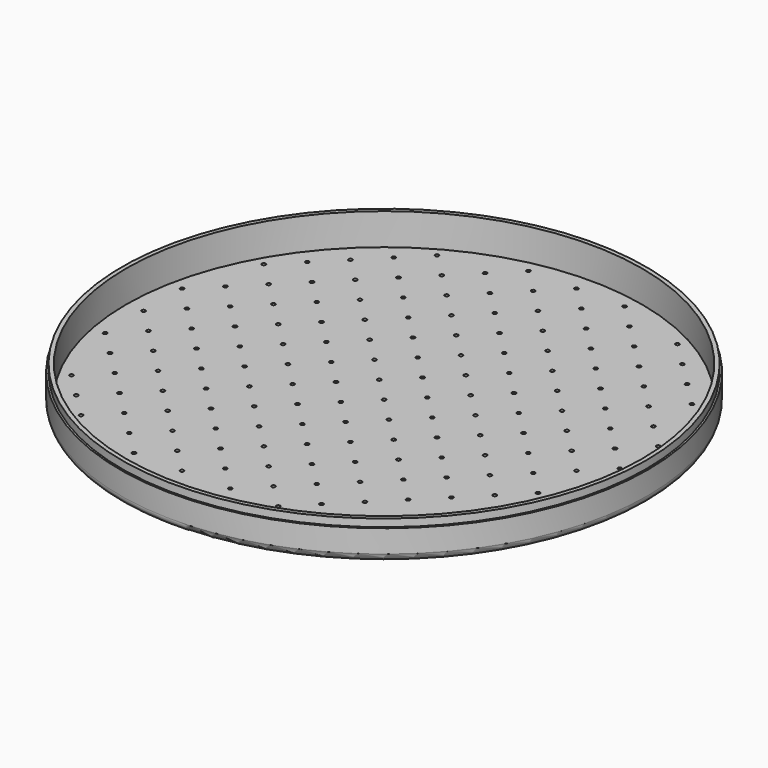
from build123d import *

# Parameters (mm, degrees)
F0_R     = 69.85
F1_DEPTH = 10
F2_T     = -1.6
F3_R     = 0.5
F4_DEPTH = 1.6
F5_R     = 2
F6_R     = 69.85
F6_R_2   = 69.35
F7_DEPTH = 2


with BuildPart() as f1:
    # F0 (on Top) → F1 (new body)
    with BuildSketch(Plane.XY):
        Circle(F0_R)
    extrude(amount=F1_DEPTH)

    # F2
    f2_openings = [f1.faces().sort_by_distance(p)[0] for p in [
        (0, 0, 10),
    ]]
    offset(amount=F2_T, openings=f2_openings)

    # F3 (on face) → F4 (cut, through all)
    with BuildSketch(Plane(origin=(0, 0, 0), x_dir=(1, 0, 0), z_dir=(0, 0, -1))):
        with Locations((-6.363922, 6.364)):
            Circle(F3_R)
        with Locations((-19.091922, 6.364)):
            Circle(F3_R)
        with Locations((-31.819922, 6.364)):
            Circle(F3_R)
        with Locations((-44.547922, 6.364)):
            Circle(F3_R)
        with Locations((-57.275922, 6.364)):
            Circle(F3_R)
        Circle(F3_R)
        with Locations((-12.728, 0)):
            Circle(F3_R)
        with Locations((-25.456, 0)):
            Circle(F3_R)
        with Locations((-38.184, 0)):
            Circle(F3_R)
        with Locations((-50.912, 0)):
            Circle(F3_R)
        with Locations((-63.64, 0)):
            Circle(F3_R)
        with Locations((-50.912, 12.728)):
            Circle(F3_R)
        with Locations((-31.819922, 19.092)):
            Circle(F3_R)
        with Locations((-44.547922, 19.092)):
            Circle(F3_R)
        with Locations((-38.184, 12.728)):
            Circle(F3_R)
        with Locations((-57.275922, 19.092)):
            Circle(F3_R)
        with Locations((-25.456, 12.728)):
            Circle(F3_R)
        with Locations((-63.64, 12.728)):
            Circle(F3_R)
        with Locations((-19.091922, 19.092)):
            Circle(F3_R)
        with Locations((-6.363922, 19.092)):
            Circle(F3_R)
        with Locations((0, 12.728)):
            Circle(F3_R)
        with Locations((-12.728, 12.728)):
            Circle(F3_R)
        with Locations((-50.912, 25.456)):
            Circle(F3_R)
        with Locations((-31.819922, 31.82)):
            Circle(F3_R)
        with Locations((-44.547922, 31.82)):
            Circle(F3_R)
        with Locations((-38.184, 25.456)):
            Circle(F3_R)
        with Locations((-57.275922, 31.82)):
            Circle(F3_R)
        with Locations((-25.456, 25.456)):
            Circle(F3_R)
        with Locations((-19.091922, 31.82)):
            Circle(F3_R)
        with Locations((-6.363922, 31.82)):
            Circle(F3_R)
        with Locations((0, 25.456)):
            Circle(F3_R)
        with Locations((-12.728, 25.456)):
            Circle(F3_R)
        with Locations((-50.912, 38.184)):
            Circle(F3_R)
        with Locations((-31.819922, 44.548)):
            Circle(F3_R)
        with Locations((-44.547922, 44.548)):
            Circle(F3_R)
        with Locations((-38.184, 38.184)):
            Circle(F3_R)
        with Locations((-25.456, 38.184)):
            Circle(F3_R)
        with Locations((-19.091922, 44.548)):
            Circle(F3_R)
        with Locations((-6.363922, 44.548)):
            Circle(F3_R)
        with Locations((0, 38.184)):
            Circle(F3_R)
        with Locations((-12.728, 38.184)):
            Circle(F3_R)
        with Locations((-31.819922, 57.276)):
            Circle(F3_R)
        with Locations((-38.184, 50.912)):
            Circle(F3_R)
        with Locations((-25.456, 50.912)):
            Circle(F3_R)
        with Locations((-19.091922, 57.276)):
            Circle(F3_R)
        with Locations((-6.363922, 57.276)):
            Circle(F3_R)
        with Locations((0, 50.912)):
            Circle(F3_R)
        with Locations((-12.728, 50.912)):
            Circle(F3_R)
        with Locations((0, 63.64)):
            Circle(F3_R)
        with Locations((-12.728, 63.64)):
            Circle(F3_R)
        with Locations((63.64, 0)):
            Circle(F3_R)
        with Locations((6.363922, 31.82)):
            Circle(F3_R)
        with Locations((12.728, 0)):
            Circle(F3_R)
        with Locations((19.091922, 6.364)):
            Circle(F3_R)
        with Locations((6.363922, 6.364)):
            Circle(F3_R)
        with Locations((19.091922, 31.82)):
            Circle(F3_R)
        with Locations((19.091922, 19.092)):
            Circle(F3_R)
        with Locations((12.728, 50.912)):
            Circle(F3_R)
        with Locations((12.728, 12.728)):
            Circle(F3_R)
        with Locations((12.728, 38.184)):
            Circle(F3_R)
        with Locations((19.091922, 57.276)):
            Circle(F3_R)
        with Locations((12.728, 25.456)):
            Circle(F3_R)
        with Locations((6.363922, 44.548)):
            Circle(F3_R)
        with Locations((12.728, 63.64)):
            Circle(F3_R)
        with Locations((63.64, 12.728)):
            Circle(F3_R)
        with Locations((6.363922, 19.092)):
            Circle(F3_R)
        with Locations((19.091922, 44.548)):
            Circle(F3_R)
        with Locations((6.363922, 57.276)):
            Circle(F3_R)
        with Locations((31.819922, 57.276)):
            Circle(F3_R)
        with Locations((57.275922, 19.092)):
            Circle(F3_R)
        with Locations((44.547922, 44.548)):
            Circle(F3_R)
        with Locations((50.912, 0)):
            Circle(F3_R)
        with Locations((38.184, 0)):
            Circle(F3_R)
        with Locations((25.456, 0)):
            Circle(F3_R)
        with Locations((57.275922, 6.364)):
            Circle(F3_R)
        with Locations((44.547922, 6.364)):
            Circle(F3_R)
        with Locations((31.819922, 6.364)):
            Circle(F3_R)
        with Locations((50.912, 12.728)):
            Circle(F3_R)
        with Locations((38.184, 12.728)):
            Circle(F3_R)
        with Locations((31.819922, 44.548)):
            Circle(F3_R)
        with Locations((25.456, 25.456)):
            Circle(F3_R)
        with Locations((44.547922, 19.092)):
            Circle(F3_R)
        with Locations((50.912, 38.184)):
            Circle(F3_R)
        with Locations((25.456, 38.184)):
            Circle(F3_R)
        with Locations((31.819922, 19.092)):
            Circle(F3_R)
        with Locations((38.184, 25.456)):
            Circle(F3_R)
        with Locations((38.184, 50.912)):
            Circle(F3_R)
        with Locations((38.184, 38.184)):
            Circle(F3_R)
        with Locations((31.819922, 31.82)):
            Circle(F3_R)
        with Locations((50.912, 25.456)):
            Circle(F3_R)
        with Locations((25.456, 12.728)):
            Circle(F3_R)
        with Locations((25.456, 50.912)):
            Circle(F3_R)
        with Locations((44.547922, 31.82)):
            Circle(F3_R)
        with Locations((57.275922, 31.82)):
            Circle(F3_R)
        with Locations((0, -63.64)):
            Circle(F3_R)
        with Locations((0, -25.456)):
            Circle(F3_R)
        with Locations((0, -38.184)):
            Circle(F3_R)
        with Locations((0, -50.912)):
            Circle(F3_R)
        with Locations((0, -12.728)):
            Circle(F3_R)
        with Locations((-6.363922, -31.82)):
            Circle(F3_R)
        with Locations((6.363922, -19.092)):
            Circle(F3_R)
        with Locations((6.363922, -6.364)):
            Circle(F3_R)
        with Locations((12.728, -38.184)):
            Circle(F3_R)
        with Locations((19.091922, -6.364)):
            Circle(F3_R)
        with Locations((-12.728, -50.912)):
            Circle(F3_R)
        with Locations((-12.728, -63.64)):
            Circle(F3_R)
        with Locations((-63.64, -12.728)):
            Circle(F3_R)
        with Locations((-6.363922, -44.548)):
            Circle(F3_R)
        with Locations((-12.728, -25.456)):
            Circle(F3_R)
        with Locations((12.728, -25.456)):
            Circle(F3_R)
        with Locations((-19.091922, -19.092)):
            Circle(F3_R)
        with Locations((6.363922, -57.276)):
            Circle(F3_R)
        with Locations((-19.091922, -57.276)):
            Circle(F3_R)
        with Locations((19.091922, -19.092)):
            Circle(F3_R)
        with Locations((-12.728, -12.728)):
            Circle(F3_R)
        with Locations((6.363922, -44.548)):
            Circle(F3_R)
        with Locations((12.728, -12.728)):
            Circle(F3_R)
        with Locations((-12.728, -38.184)):
            Circle(F3_R)
        with Locations((-6.363922, -19.092)):
            Circle(F3_R)
        with Locations((-6.363922, -57.276)):
            Circle(F3_R)
        with Locations((12.728, -50.912)):
            Circle(F3_R)
        with Locations((19.091922, -44.548)):
            Circle(F3_R)
        with Locations((19.091922, -31.82)):
            Circle(F3_R)
        with Locations((6.363922, -31.82)):
            Circle(F3_R)
        with Locations((63.64, -12.728)):
            Circle(F3_R)
        with Locations((19.091922, -57.276)):
            Circle(F3_R)
        with Locations((-19.091922, -6.364)):
            Circle(F3_R)
        with Locations((-19.091922, -31.82)):
            Circle(F3_R)
        with Locations((-19.091922, -44.548)):
            Circle(F3_R)
        with Locations((12.728, -63.64)):
            Circle(F3_R)
        with Locations((-6.363922, -6.364)):
            Circle(F3_R)
        with Locations((31.819922, -44.548)):
            Circle(F3_R)
        with Locations((-31.819922, -57.276)):
            Circle(F3_R)
        with Locations((25.456, -25.456)):
            Circle(F3_R)
        with Locations((50.912, -25.456)):
            Circle(F3_R)
        with Locations((-31.819922, -31.82)):
            Circle(F3_R)
        with Locations((-25.456, -12.728)):
            Circle(F3_R)
        with Locations((38.184, -38.184)):
            Circle(F3_R)
        with Locations((-38.184, -38.184)):
            Circle(F3_R)
        with Locations((-57.275922, -19.092)):
            Circle(F3_R)
        with Locations((38.184, -50.912)):
            Circle(F3_R)
        with Locations((-44.547922, -44.548)):
            Circle(F3_R)
        with Locations((-50.912, -12.728)):
            Circle(F3_R)
        with Locations((-50.912, -25.456)):
            Circle(F3_R)
        with Locations((-25.456, -38.184)):
            Circle(F3_R)
        with Locations((31.819922, -31.82)):
            Circle(F3_R)
        with Locations((50.912, -12.728)):
            Circle(F3_R)
        with Locations((-25.456, -50.912)):
            Circle(F3_R)
        with Locations((-44.547922, -31.82)):
            Circle(F3_R)
        with Locations((25.456, -12.728)):
            Circle(F3_R)
        with Locations((44.547922, -19.092)):
            Circle(F3_R)
        with Locations((-50.912, -38.184)):
            Circle(F3_R)
        with Locations((57.275922, -6.364)):
            Circle(F3_R)
        with Locations((-31.819922, -44.548)):
            Circle(F3_R)
        with Locations((-38.184, -25.456)):
            Circle(F3_R)
        with Locations((25.456, -50.912)):
            Circle(F3_R)
        with Locations((44.547922, -6.364)):
            Circle(F3_R)
        with Locations((50.912, -38.184)):
            Circle(F3_R)
        with Locations((38.184, -25.456)):
            Circle(F3_R)
        with Locations((44.547922, -31.82)):
            Circle(F3_R)
        with Locations((-57.275922, -31.82)):
            Circle(F3_R)
        with Locations((44.547922, -44.548)):
            Circle(F3_R)
        with Locations((-31.819922, -19.092)):
            Circle(F3_R)
        with Locations((57.275922, -31.82)):
            Circle(F3_R)
        with Locations((57.275922, -19.092)):
            Circle(F3_R)
        with Locations((31.819922, -6.364)):
            Circle(F3_R)
        with Locations((31.819922, -19.092)):
            Circle(F3_R)
        with Locations((-44.547922, -19.092)):
            Circle(F3_R)
        with Locations((-57.275922, -6.364)):
            Circle(F3_R)
        with Locations((-44.547922, -6.364)):
            Circle(F3_R)
        with Locations((-31.819922, -6.364)):
            Circle(F3_R)
        with Locations((-38.184, -50.912)):
            Circle(F3_R)
        with Locations((-25.456, -25.456)):
            Circle(F3_R)
        with Locations((38.184, -12.728)):
            Circle(F3_R)
        with Locations((-38.184, -12.728)):
            Circle(F3_R)
        with Locations((25.456, -38.184)):
            Circle(F3_R)
        with Locations((31.819922, -57.276)):
            Circle(F3_R)
    extrude(amount=-F4_DEPTH, mode=Mode.SUBTRACT)

    # F5
    f5_edges = [f1.edges().sort_by_distance(p)[0] for p in [
        (-69.85, 0, 0),
    ]]
    fillet(f5_edges, radius=F5_R)

    # F6 (on face) → F7 (cut)
    with BuildSketch(Plane.XY.offset(10)):
        Circle(F6_R)
        Circle(F6_R_2, mode=Mode.SUBTRACT)
    extrude(amount=-F7_DEPTH, mode=Mode.SUBTRACT)


solid = f1.part
